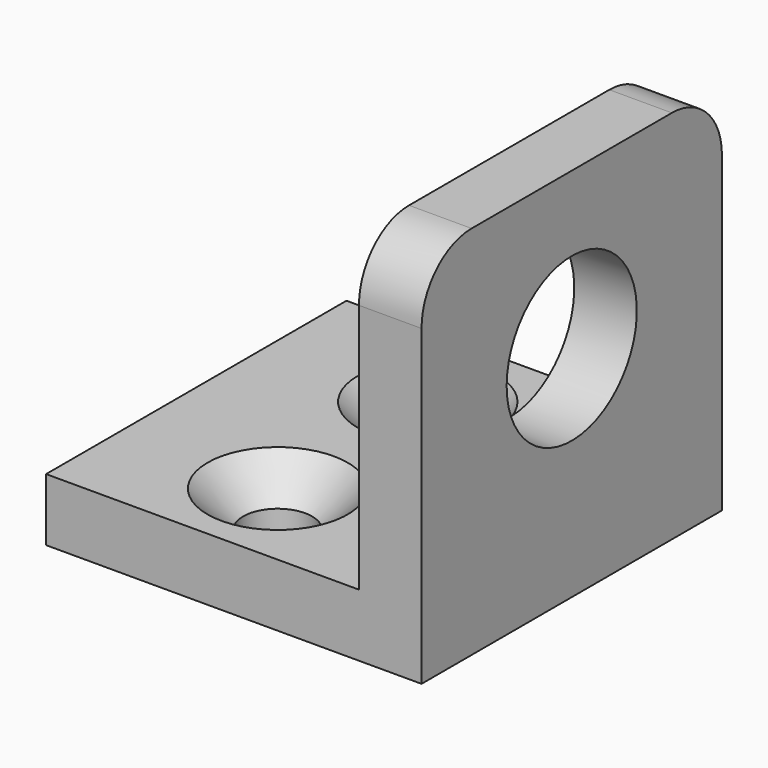
from build123d import *

# Parameters (mm, degrees)
F1_DEPTH       = 30
F2_R           = 5
F3_R           = 6.5
F4_DEPTH       = 5.001
F6_D           = 5.5
F6_DEPTH       = 18
F6_CSINK_D     = 11.2
F6_CSINK_ANGLE = 90
F6_TIP         = 1.6523667023


with BuildPart() as f1:
    # F0 (on Front) → F1 (new body)
    with BuildSketch(Plane.XZ):
        Polygon((-15, -2.5), (15, -2.5), (15, 2.5), (15, 27.5), (10, 27.5), (10, 2.5), (-15, 2.5), align=None)
    extrude(amount=F1_DEPTH)

    # F2
    f2_edges = [f1.edges().sort_by_distance(p)[0] for p in [
        (12.5, 0, 27.5),
        (12.5, -30, 27.5),
    ]]
    fillet(f2_edges, radius=F2_R)

    # F3 (on face) → F4 (cut, through all)
    with BuildSketch(Plane(origin=(10, 0, 0), x_dir=(0, -1, 0), z_dir=(-1, 0, 0))):
        with Locations((15, 15)):
            Circle(F3_R)
    extrude(amount=-F4_DEPTH, mode=Mode.SUBTRACT)

    # F6
    with Locations(Plane.XY.offset(2.5)):
        with Locations((-2.5, -22.5), (-2.5, -7.5)):
            CounterSinkHole(F6_D / 2, F6_CSINK_D / 2, depth=F6_DEPTH, counter_sink_angle=F6_CSINK_ANGLE)
            with Locations((0, 0, -(F6_DEPTH + F6_TIP / 2))):  # 118° drill point
                Cone(0, F6_D / 2, F6_TIP, mode=Mode.SUBTRACT)


solid = f1.part
